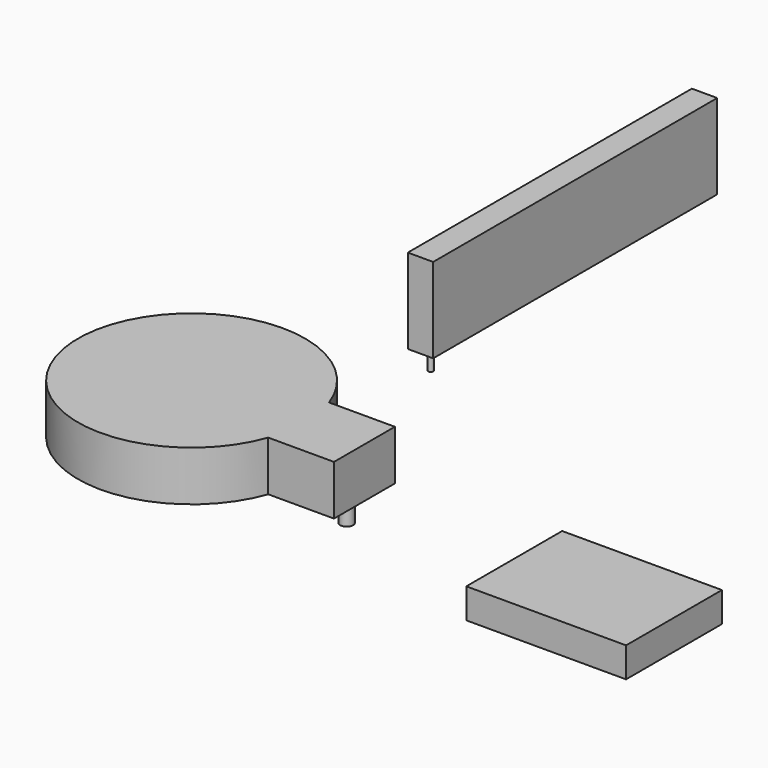
from build123d import *

# Parameters (mm, degrees)
PAD_DEPTH    = 5
SKETCH001_R  = 0.65
PAD001_DEPTH = 2.5
SKETCH002_W  = 16
SKETCH002_H  = 12
PAD002_DEPTH = 3
SKETCH003_W  = 2.54
SKETCH003_H  = 35.56
PAD003_DEPTH = 8.5
SKETCH004_R  = 0.254
PAD004_DEPTH = 2


with BuildPart() as coin_cell_holder:
    # Sketch → Pad (new body)
    with BuildSketch(Plane.XY):
        with BuildLine():
            ThreePointArc((10.72326, 3.81), (-11.38, 0), (10.72326, -3.81))
            Line((10.72326, -3.81), (17.31, -3.81))
            Line((17.31, -3.81), (17.31, 3.81))
            Line((17.31, 3.81), (10.72326, 3.81))
        make_face()
    extrude(amount=PAD_DEPTH)

    # Sketch001 (on Face5 of Pad) → Pad001 (join)
    with BuildSketch(Plane(origin=(0, 0, 0), x_dir=(1, 0, 0), z_dir=(0, 0, -1))):
        with Locations((-4.96, 0)):
            Circle(SKETCH001_R)
        with Locations((15.53, 0)):
            Circle(SKETCH001_R)
    extrude(amount=PAD001_DEPTH)


with BuildPart() as obj1:
    # Sketch002 → Pad002 (new body)
    with BuildSketch(Plane.XY):
        with Locations((44.156133, -4.803074)):
            Rectangle(SKETCH002_W, SKETCH002_H)
    extrude(amount=PAD002_DEPTH)


with BuildPart() as teensy_header:
    # Sketch003 → Pad003 (new body)
    with BuildSketch(Plane.XY):
        with Locations((5.141866, 40.008708)):
            Rectangle(SKETCH003_W, SKETCH003_H)
    extrude(amount=PAD003_DEPTH)

    # Sketch004 (on Face5 of Pad003) → Pad004 (join)
    with BuildSketch(Plane(origin=(0, 0, 0), x_dir=(1, 0, 0), z_dir=(0, 0, -1))):
        with Locations((5.141866, -23.498708)):
            Circle(SKETCH004_R)
    extrude(amount=PAD004_DEPTH)


solid = Compound([coin_cell_holder.part, obj1.part, teensy_header.part])
